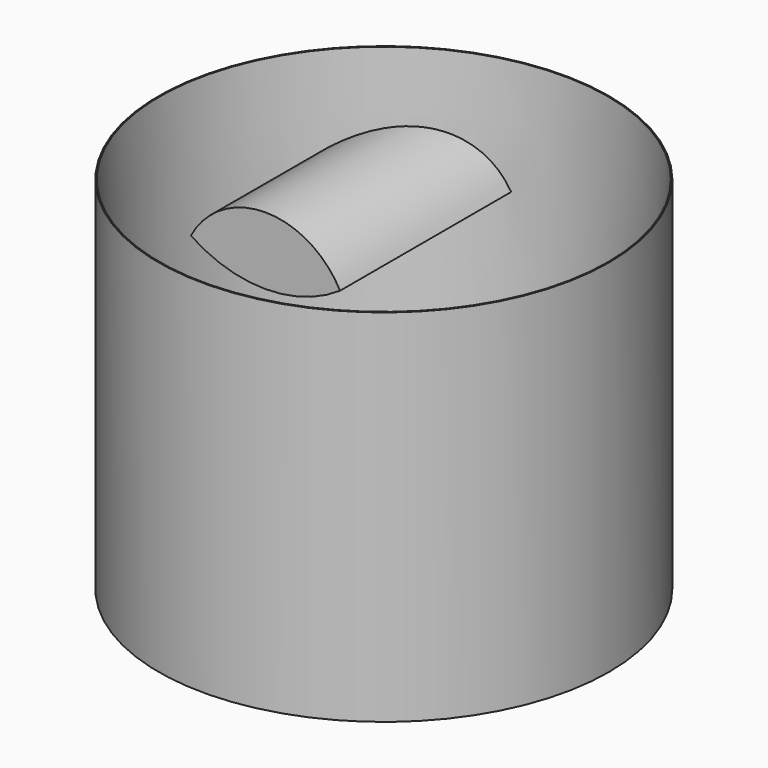
from build123d import *

# Parameters (mm, degrees)
F0_R     = 25
F1_DEPTH = 10
F2_R     = 50
F2_R_2   = 25
F3_DEPTH = 80
F4_R     = 49.75
F5_DEPTH = 75
F5_TAPER = 3
F7_DEPTH = 49


with BuildPart() as f1:
    # F0 (on Top) → F1 (new body)
    with BuildSketch(Plane.XY):
        Circle(F0_R)
    extrude(amount=F1_DEPTH)


with BuildPart() as f3:
    # F2 (on face) → F3 (new body)
    with BuildSketch(Plane.XY.offset(10)):
        Circle(F2_R)
        Circle(F2_R_2, mode=Mode.SUBTRACT)
    extrude(amount=F3_DEPTH)

    # F4 (on face) → F5 (cut)
    with BuildSketch(Plane.XY.offset(90)):
        Circle(F4_R)
    extrude(amount=-F5_DEPTH, taper=F5_TAPER, mode=Mode.SUBTRACT)

    # F6 (on Front) → F7 (join)
    with BuildSketch(Plane.XZ):
        with BuildLine():
            ThreePointArc((-9.7182350287, 65.0651815314), (-26.274882257, 75), (-42.8315294853, 65.0651815314))
            ThreePointArc((-42.8315294853, 65.0651815314), (-26.274882257, 60), (-9.7182350287, 65.0651815314))
        make_face()
    extrude(amount=-F7_DEPTH)


solid = Compound([f1.part, f3.part])
